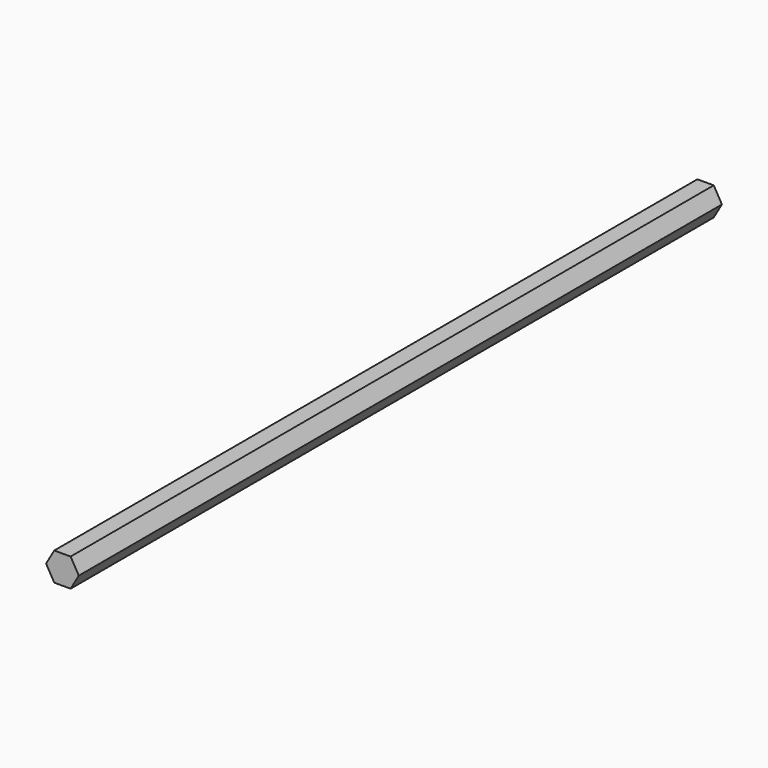
from build123d import *

# Parameters (mm, degrees)
F1_DEPTH = 360.3625
F2_R     = 3.175
F3_DEPTH = 9.525


with BuildPart() as f1:
    # F0 (on Front) → F1 (new body)
    with BuildSketch(Plane.XZ):
        Polygon((3.666174, 6.35), (-3.666174, 6.35), (-7.332348, 0), (-3.666174, -6.35), (3.666174, -6.35), (7.332348, 0), align=None)
    extrude(amount=F1_DEPTH)

    # F2 (on face) → F3 (cut)
    with BuildSketch(Plane(origin=(0, 0, 0), x_dir=(-1, 0, 0), z_dir=(0, 1, 0))):
        Circle(F2_R)
    extrude(amount=-F3_DEPTH, mode=Mode.SUBTRACT)


solid = f1.part
